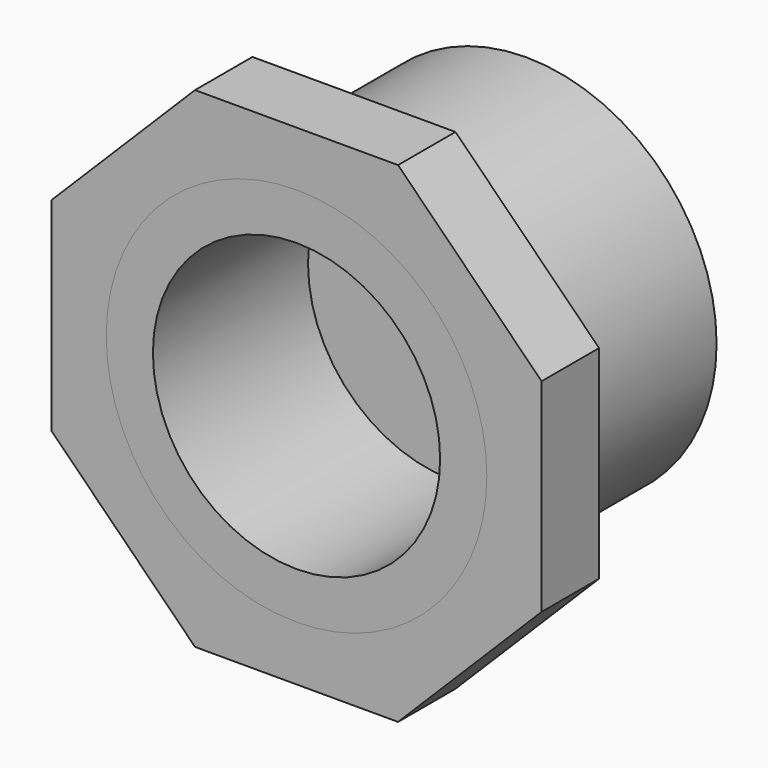
from build123d import *

# Parameters (mm, degrees)
F0_R     = 12.7
F1_DEPTH = 8.255
F0_R_2   = 16.8275
F2_DEPTH = 25.4
F3_R     = 16.8275
F4_DEPTH = 6.35


with BuildPart() as f1:
    # F0 (on Front) → F1 (new body)
    with BuildSketch(Plane.XZ):
        Circle(F0_R)
    extrude(amount=F1_DEPTH)

    # F0 (on Front) → F2 (join)
    with BuildSketch(Plane.XZ):
        Circle(F0_R_2)
        Circle(F0_R, mode=Mode.SUBTRACT)
    extrude(amount=F2_DEPTH)


with BuildPart() as f4:
    # F3 (on face) → F4 (new body)
    with BuildSketch(Plane.XZ.offset(25.4)):
        Polygon((-8.978167, -21.675211), (8.978167, -21.675211), (21.675211, -8.978167), (21.675211, 8.978167), (8.978167, 21.675211), (-8.978167, 21.675211), (-21.675211, 8.978167), (-21.675211, -8.978167), align=None)
        Circle(F3_R, mode=Mode.SUBTRACT)
    extrude(amount=-F4_DEPTH)


solid = Compound([f1.part, f4.part])
